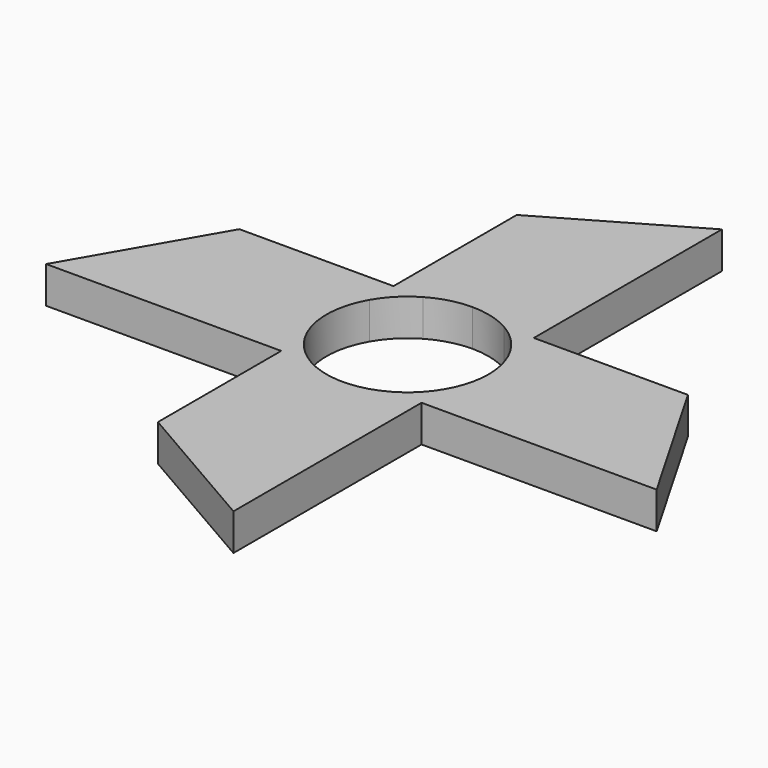
from build123d import *

# Parameters (mm, degrees)
F1_DEPTH = 5


with BuildPart() as f1:
    # F0 (on Top) → F1 (new body)
    with BuildSketch(Plane.XY):
        with BuildLine():
            ThreePointArc((0, 11.025), (2.8534799723, 10.6493322348), (5.5125, 9.5479300767))
            Line((5.5125, 9.5479300767), (9.5479300767, 9.5479300767))
            Line((9.5479300767, 9.5479300767), (9.5479300767, 30.5125))
            Line((9.5479300767, 30.5125), (-9.5479300767, 30.5125))
            Line((-9.5479300767, 30.5125), (-9.5479300767, 9.5479300767))
            Line((-9.5479300767, 9.5479300767), (-5.5125, 9.5479300767))
            ThreePointArc((-5.5125, 9.5479300767), (-2.8534799723, 10.6493322348), (0, 11.025))
        make_face()
        Polygon((-9.5479300767, 30.5125), (9.5479300767, 30.5125), (9.5479300767, 41.5375), (0, 36.025), align=None)
        with BuildLine():
            ThreePointArc((-9.5479300767, 5.5125), (-7.7958522626, 7.7958522626), (-5.5125, 9.5479300767))
            Line((-5.5125, 9.5479300767), (-9.5479300767, 9.5479300767))
            Line((-9.5479300767, 9.5479300767), (-9.5479300767, 5.5125))
        make_face()
        with BuildLine():
            Line((-9.5479300767, -9.5479300767), (-9.5479300767, -5.5125))
            ThreePointArc((-9.5479300767, -5.5125), (-11.025, 0), (-9.5479300767, 5.5125))
            Line((-9.5479300767, 5.5125), (-9.5479300767, 9.5479300767))
            Line((-9.5479300767, 9.5479300767), (-30.5125, 9.5479300767))
            Line((-30.5125, 9.5479300767), (-30.5125, -9.5479300767))
            Line((-30.5125, -9.5479300767), (-9.5479300767, -9.5479300767))
        make_face()
        Polygon((-41.5375, -9.5479300767), (-30.5125, -9.5479300767), (-30.5125, 9.5479300767), (-36.025, 0), align=None)
        with BuildLine():
            Line((-9.5479300767, -9.5479300767), (-5.5125, -9.5479300767))
            ThreePointArc((-5.5125, -9.5479300767), (-7.7958522626, -7.7958522626), (-9.5479300767, -5.5125))
            Line((-9.5479300767, -5.5125), (-9.5479300767, -9.5479300767))
        make_face()
        with BuildLine():
            Line((9.5479300767, -9.5479300767), (5.5125, -9.5479300767))
            ThreePointArc((5.5125, -9.5479300767), (0, -11.025), (-5.5125, -9.5479300767))
            Line((-5.5125, -9.5479300767), (-9.5479300767, -9.5479300767))
            Line((-9.5479300767, -9.5479300767), (-9.5479300767, -30.5125))
            Line((-9.5479300767, -30.5125), (9.5479300767, -30.5125))
            Line((9.5479300767, -30.5125), (9.5479300767, -9.5479300767))
        make_face()
        Polygon((9.5479300767, -41.5375), (9.5479300767, -30.5125), (-9.5479300767, -30.5125), align=None)
        with BuildLine():
            Line((9.5479300767, -9.5479300767), (9.5479300767, -5.5125))
            ThreePointArc((9.5479300767, -5.5125), (7.7958522626, -7.7958522626), (5.5125, -9.5479300767))
            Line((5.5125, -9.5479300767), (9.5479300767, -9.5479300767))
        make_face()
        with BuildLine():
            ThreePointArc((5.5125, 9.5479300767), (7.7958522626, 7.7958522626), (9.5479300767, 5.5125))
            Line((9.5479300767, 5.5125), (9.5479300767, 9.5479300767))
            Line((9.5479300767, 9.5479300767), (5.5125, 9.5479300767))
        make_face()
        with BuildLine():
            ThreePointArc((9.5479300767, 5.5125), (10.6493322348, 2.8534799723), (11.025, 0))
            ThreePointArc((11.025, 0), (10.6493322348, -2.8534799723), (9.5479300767, -5.5125))
            Line((9.5479300767, -5.5125), (9.5479300767, -9.5479300767))
            Line((9.5479300767, -9.5479300767), (30.5125, -9.5479300767))
            Line((30.5125, -9.5479300767), (30.5125, 9.5479300767))
            Line((30.5125, 9.5479300767), (9.5479300767, 9.5479300767))
            Line((9.5479300767, 9.5479300767), (9.5479300767, 5.5125))
        make_face()
        Polygon((41.5375, -9.5479300767), (30.5125, 9.5479300767), (30.5125, -9.5479300767), align=None)
    extrude(amount=F1_DEPTH)


solid = f1.part
